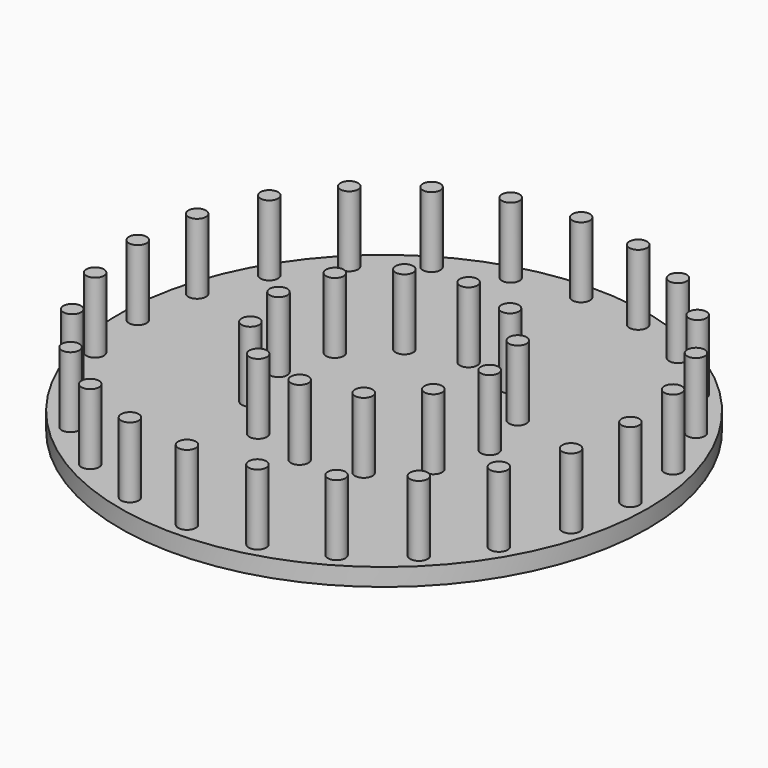
from build123d import *

# Parameters (mm, degrees)
F2_R     = 75
F3_DEPTH = 2.5
F4_R     = 2.5
F5_DEPTH = 20


with BuildPart() as f3:
    # F2 (on Top) → F3 (new body, symmetric)
    with BuildSketch(Plane.XY):
        Circle(F2_R)
    extrude(amount=F3_DEPTH, both=True)

    # F4 (on face) → F5 (join)
    with BuildSketch(Plane.XY.offset(2.5)):
        with Locations((-15, 25.9807621135)):
            Circle(F4_R)
        with Locations((0, 70)):
            Circle(F4_R)
        with Locations((-18.1173331572, 67.6148078402)):
            Circle(F4_R)
        with Locations((-35, 60.6217782649)):
            Circle(F4_R)
        with Locations((-49.4974746831, 49.4974746831)):
            Circle(F4_R)
        with Locations((-60.6217782649, 35)):
            Circle(F4_R)
        with Locations((-67.6148078402, 18.1173331572)):
            Circle(F4_R)
        with Locations((-70, 0)):
            Circle(F4_R)
        with Locations((-67.6148078402, -18.1173331572)):
            Circle(F4_R)
        with Locations((-60.6217782649, -35)):
            Circle(F4_R)
        with Locations((-49.4974746831, -49.4974746831)):
            Circle(F4_R)
        with Locations((-35, -60.6217782649)):
            Circle(F4_R)
        with Locations((-18.1173331572, -67.6148078402)):
            Circle(F4_R)
        with Locations((0, -70)):
            Circle(F4_R)
        with Locations((18.1173331572, -67.6148078402)):
            Circle(F4_R)
        with Locations((35, -60.6217782649)):
            Circle(F4_R)
        with Locations((49.4974746831, -49.4974746831)):
            Circle(F4_R)
        with Locations((60.6217782649, -35)):
            Circle(F4_R)
        with Locations((67.6148078402, -18.1173331572)):
            Circle(F4_R)
        with Locations((70, 0)):
            Circle(F4_R)
        with Locations((67.6148078402, 18.1173331572)):
            Circle(F4_R)
        with Locations((60.6217782649, 35)):
            Circle(F4_R)
        with Locations((49.4974746831, 49.4974746831)):
            Circle(F4_R)
        with Locations((35, 60.6217782649)):
            Circle(F4_R)
        with Locations((18.1173331572, 67.6148078402)):
            Circle(F4_R)
        with Locations((-25.9807621135, 15)):
            Circle(F4_R)
        with Locations((-30, 0)):
            Circle(F4_R)
        with Locations((-25.9807621135, -15)):
            Circle(F4_R)
        with Locations((-15, -25.9807621135)):
            Circle(F4_R)
        with Locations((0, -30)):
            Circle(F4_R)
        with Locations((15, -25.9807621135)):
            Circle(F4_R)
        with Locations((25.9807621135, -15)):
            Circle(F4_R)
        with Locations((30, 0)):
            Circle(F4_R)
        with Locations((25.9807621135, 15)):
            Circle(F4_R)
        with Locations((15, 25.9807621135)):
            Circle(F4_R)
        with Locations((0, 30)):
            Circle(F4_R)
    extrude(amount=F5_DEPTH)


solid = f3.part
